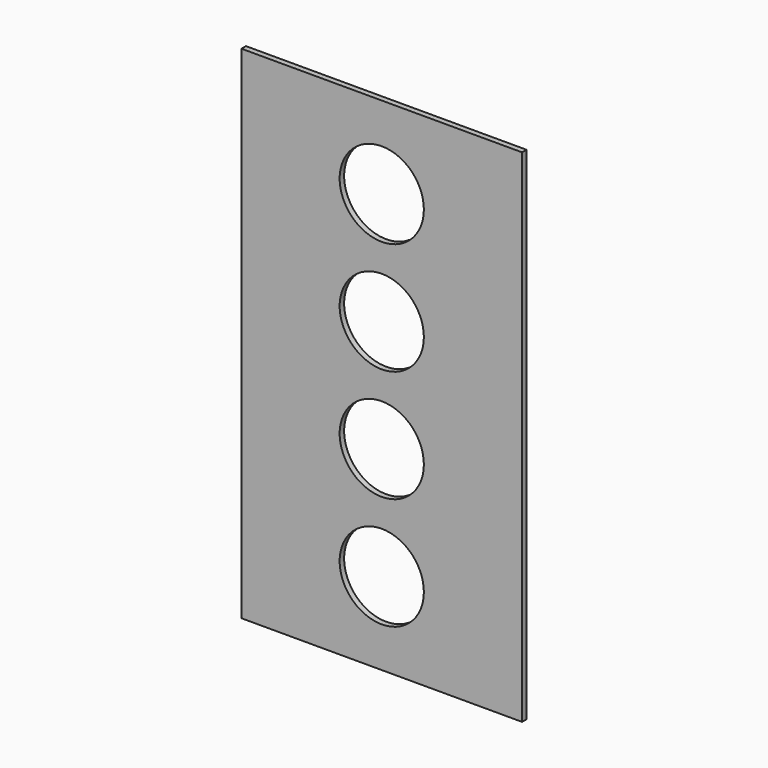
from build123d import *

# Parameters (mm, degrees)
F0_W     = 75
F0_H     = 134
F0_R     = 11.25
F1_DEPTH = 1.5


with BuildPart() as f1:
    # F0 (on Front) → F1 (new body)
    with BuildSketch(Plane.XZ):
        Rectangle(F0_W, F0_H)
        with Locations((0, -45)):
            Circle(F0_R, mode=Mode.SUBTRACT)
        with Locations((0, -15)):
            Circle(F0_R, mode=Mode.SUBTRACT)
        with Locations((0, 15)):
            Circle(F0_R, mode=Mode.SUBTRACT)
        with Locations((0, 45)):
            Circle(F0_R, mode=Mode.SUBTRACT)
        Rectangle(F0_W, F0_H)
        with Locations((0, -45)):
            Circle(F0_R, mode=Mode.SUBTRACT)
        with Locations((0, -15)):
            Circle(F0_R, mode=Mode.SUBTRACT)
        with Locations((0, 15)):
            Circle(F0_R, mode=Mode.SUBTRACT)
        with Locations((0, 45)):
            Circle(F0_R, mode=Mode.SUBTRACT)
    extrude(amount=F1_DEPTH)


solid = f1.part
